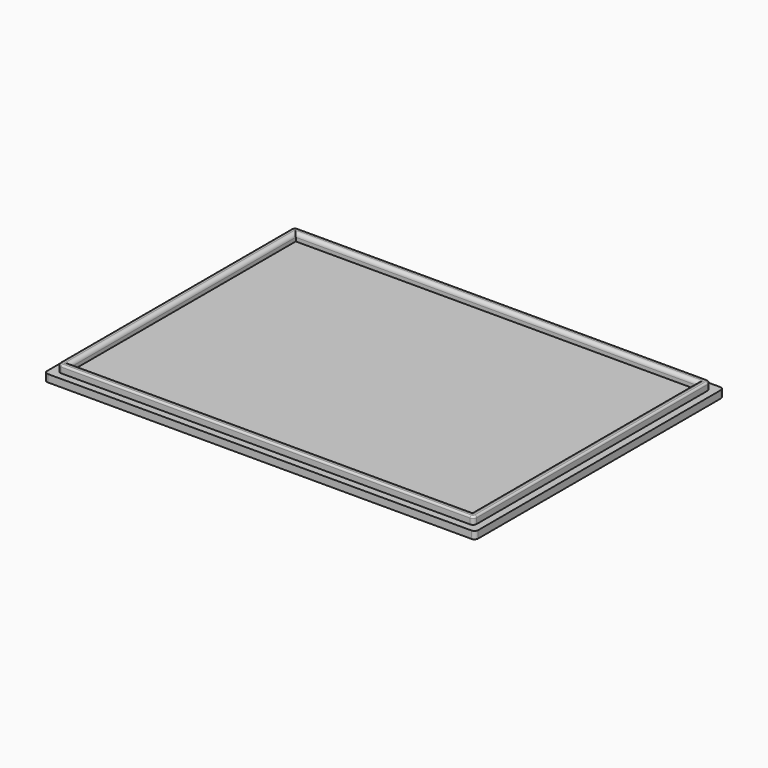
from build123d import *

# Parameters (mm, degrees)
SKETCH021_W     = 116.5
SKETCH021_H     = 84
PAD008_DEPTH    = 2
SKETCH022_W     = 112.5
SKETCH022_H     = 80
PAD009_DEPTH    = 2
SKETCH023_W     = 108.5
SKETCH023_H     = 76
POCKET013_DEPTH = 2
FILLET014_R     = 1
FILLET015_R     = 1
FILLET016_R     = 1
FILLET017_R     = 1
FILLET018_R     = 1
FILLET019_R     = 1
FILLET020_R     = 1
FILLET021_R     = 0.5
FILLET022_R     = 1
FILLET023_R     = 1


with BuildPart() as part:
    # Sketch021 → Pad008 (new body)
    with BuildSketch(Plane(origin=(0, 0, 0), x_dir=(1, 0, 0), z_dir=(0, 0, -1))):
        with Locations((58.25, 42)):
            Rectangle(SKETCH021_W, SKETCH021_H)
    extrude(amount=PAD008_DEPTH)

    # Sketch022 (on Face5 of Pad008) → Pad009 (new body)
    with BuildSketch(Plane.XY):
        with Locations((58.25, -42)):
            Rectangle(SKETCH022_W, SKETCH022_H)
    extrude(amount=PAD009_DEPTH)

    # Sketch023 (on Face11 of Pad009) → Pocket013 (cut)
    with BuildSketch(Plane.XY.offset(2)):
        with Locations((58.25, -42)):
            Rectangle(SKETCH023_W, SKETCH023_H)
    extrude(amount=-POCKET013_DEPTH, mode=Mode.SUBTRACT)

    # Fillet014
    fillet014_edges = [part.edges().sort_by_distance(p)[0] for p in [
        (114.5, -82, 1),
    ]]
    fillet(fillet014_edges, radius=FILLET014_R)

    # Fillet015
    fillet015_edges = [part.edges().sort_by_distance(p)[0] for p in [
        (114.5, -2, 1),
        (116.5, 0, -1),
    ]]
    fillet(fillet015_edges, radius=FILLET015_R)

    # Fillet016
    fillet016_edges = [part.edges().sort_by_distance(p)[0] for p in [
        (116.5, -84, -1),
    ]]
    fillet(fillet016_edges, radius=FILLET016_R)

    # Fillet017
    fillet017_edges = [part.edges().sort_by_distance(p)[0] for p in [
        (0, -84, -1),
        (2, -82, 1),
    ]]
    fillet(fillet017_edges, radius=FILLET017_R)

    # Fillet018
    fillet018_edges = [part.edges().sort_by_distance(p)[0] for p in [
        (0, 0, -1),
        (2, -2, 1),
    ]]
    fillet(fillet018_edges, radius=FILLET018_R)

    # Fillet019
    fillet019_edges = [part.edges().sort_by_distance(p)[0] for p in [
        (58.25, -4, 2),
    ]]
    fillet(fillet019_edges, radius=FILLET019_R)

    # Fillet020
    fillet020_edges = [part.edges().sort_by_distance(p)[0] for p in [
        (4, -42, 2),
    ]]
    fillet(fillet020_edges, radius=FILLET020_R)

    # Fillet021
    fillet021_edges = [part.edges().sort_by_distance(p)[0] for p in [
        (58.25, -2, 2),
    ]]
    fillet(fillet021_edges, radius=FILLET021_R)

    # Fillet022
    fillet022_edges = [part.edges().sort_by_distance(p)[0] for p in [
        (58.25, -80, 2),
    ]]
    fillet(fillet022_edges, radius=FILLET022_R)

    # Fillet023
    fillet023_edges = [part.edges().sort_by_distance(p)[0] for p in [
        (112.5, -42, 2),
    ]]
    fillet(fillet023_edges, radius=FILLET023_R)


solid = part.part
